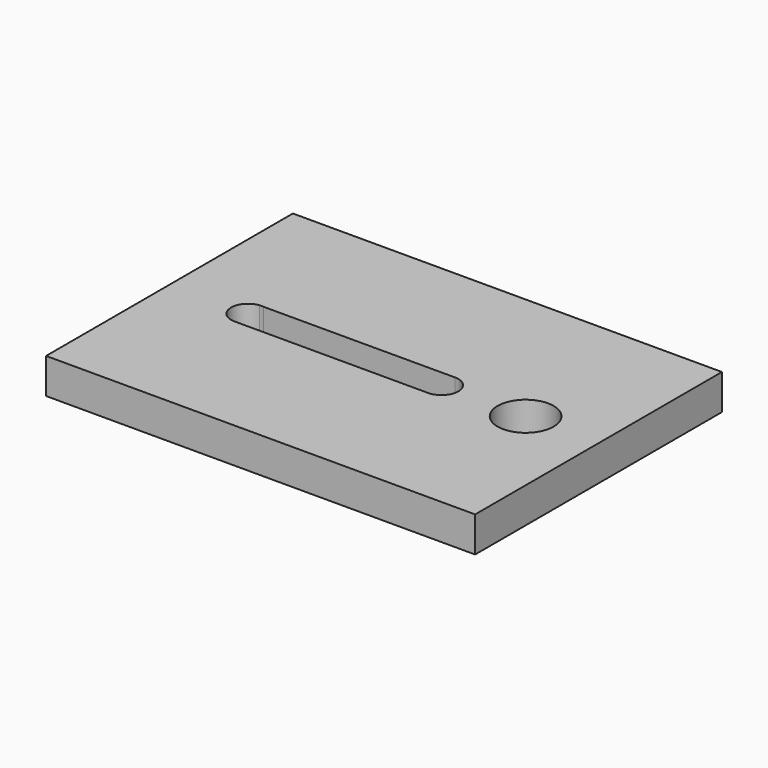
from build123d import *

# Parameters (mm, degrees)
F0_W     = 76.5
F0_H     = 55
F0_R     = 5
F1_DEPTH = 6.3


with BuildPart() as f1:
    # F0 (on Top) → F1 (new body)
    with BuildSketch(Plane.XY):
        Rectangle(F0_W, F0_H)
        with BuildLine():
            ThreePointArc((10.248019, 2.999999), (12.37062, 2.12202), (13.25, 0))
            ThreePointArc((13.25, 0), (12.371037, -2.121604), (10.249198, -3))
            Line((10.249198, -3), (-24.015752, -2.990841))
            ThreePointArc((-24.015752, -2.990841), (-24.250802, -3), (-24.485847, -2.990715))
            ThreePointArc((-24.485847, -2.990715), (-27.249231, -0.067905), (-24.620961, 2.976976))
            ThreePointArc((-24.620961, 2.976976), (-24.251981, 2.999999), (-23.882971, 2.977464))
            Line((-23.882971, 2.977464), (10.248019, 2.999999))
        make_face(mode=Mode.SUBTRACT)
        with Locations((25.25, 0)):
            Circle(F0_R, mode=Mode.SUBTRACT)
    extrude(amount=F1_DEPTH)


solid = f1.part
